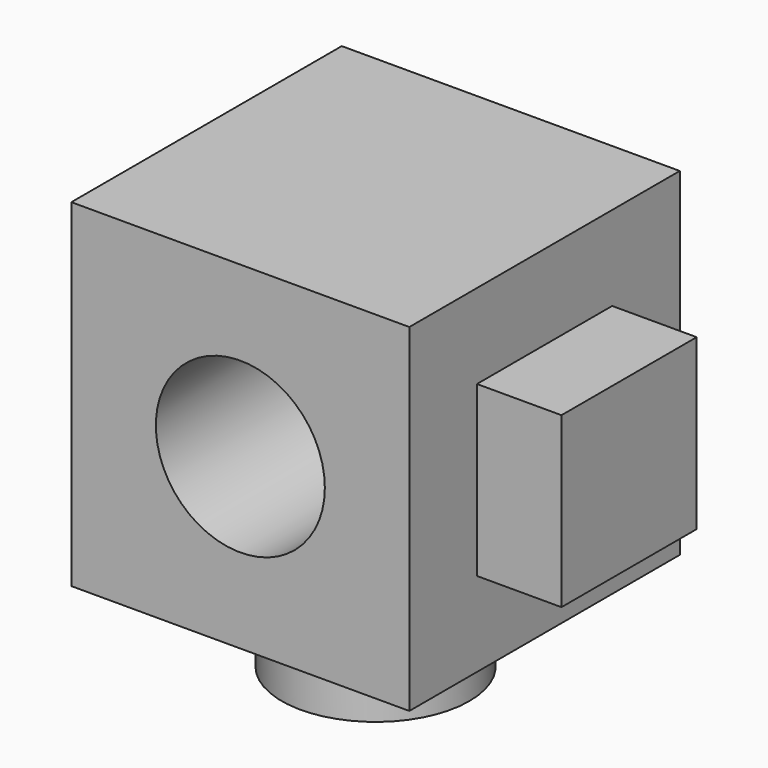
from build123d import *

# Parameters (mm, degrees)
F0_W     = 50.8
F0_H     = 50.8
F2_DEPTH = 50.8
F1_R     = 12.7
F3_DEPTH = 51.308
F4_W     = 25.4
F4_H     = 25.4
F5_DEPTH = 12.7
F6_R     = 14.097
F7_DEPTH = 12.7


with BuildPart() as f2:
    # F0 (on Front) → F2 (new body)
    with BuildSketch(Plane.XZ):
        with Locations((-25.4, 25.4)):
            Rectangle(F0_W, F0_H)
    extrude(amount=F2_DEPTH)

    # F1 (on face) → F3 (cut)
    with BuildSketch(Plane.XZ):
        with Locations((-25.4, 25.4)):
            Circle(F1_R)
    extrude(amount=F3_DEPTH, mode=Mode.SUBTRACT)

    # F4 (on face) → F5 (join)
    with BuildSketch(Plane.YZ):
        with Locations((-25.4, 25.4)):
            Rectangle(F4_W, F4_H)
    extrude(amount=F5_DEPTH)

    # F6 (on face) → F7 (join)
    with BuildSketch(Plane(origin=(0, 0, 0), x_dir=(1, 0, 0), z_dir=(0, 0, -1))):
        with Locations((-25.4, 25.4)):
            Circle(F6_R)
    extrude(amount=F7_DEPTH)


solid = f2.part
